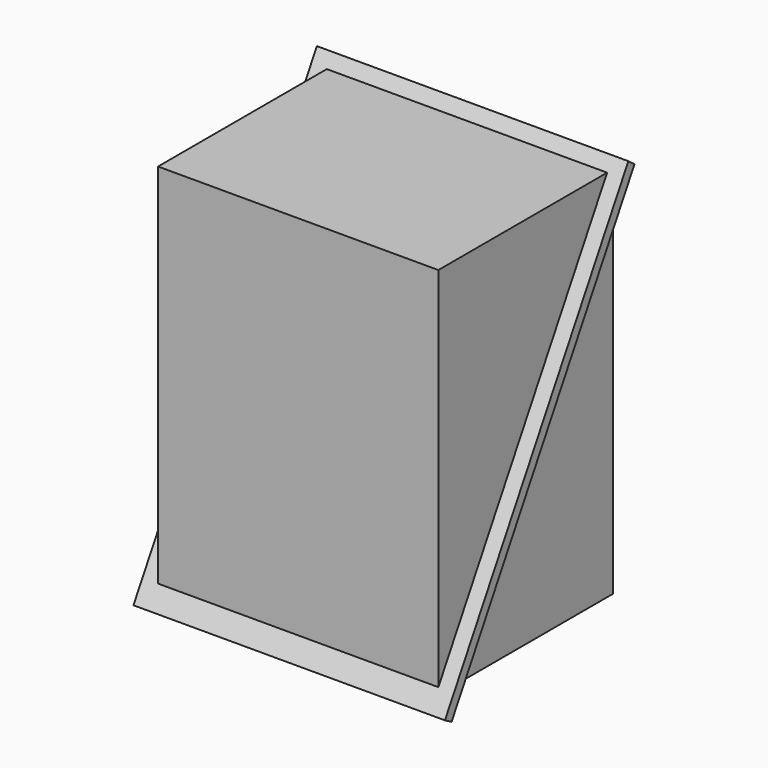
from build123d import *

# Parameters (mm, degrees)
F0_W     = 457.2
F0_H     = 609.6
F1_DEPTH = 355.6
F3_DEPTH = 482.6
F5_DEPTH = 25.4
F6_R     = 88.9
F7_DEPTH = 76.2


with BuildPart() as f1:
    # F0 (on Front) → F1 (new body)
    with BuildSketch(Plane.XZ):
        Rectangle(F0_W, F0_H)
    extrude(amount=F1_DEPTH)

    # F2 (on face) → F3 (join)
    with BuildSketch(Plane(origin=(-228.6, 0, 0), x_dir=(0, -1, 0), z_dir=(-1, 0, 0))):
        Polygon((373.938978, -326.002896), (0, 324.883193), (-12.612531, 315.483219), (360.396054, -333.783408), align=None)
    extrude(amount=-F3_DEPTH)

    # F4 (on face) → F5 (join)
    with BuildSketch(Plane(origin=(-228.6, 0, 0), x_dir=(0, -1, 0), z_dir=(-1, 0, 0))):
        Polygon((373.938978, -326.002896), (0, 324.883193), (-12.612531, 315.483219), (360.396054, -333.783408), align=None)
    extrude(amount=F5_DEPTH)

    # F6 (on face) → F7 (join)
    with BuildSketch(Plane(origin=(0, 0, 0), x_dir=(-1, 0, 0), z_dir=(0, 1, 0))):
        with Locations((0, 109.448686)):
            Circle(F6_R)
    extrude(amount=F7_DEPTH)


solid = f1.part
